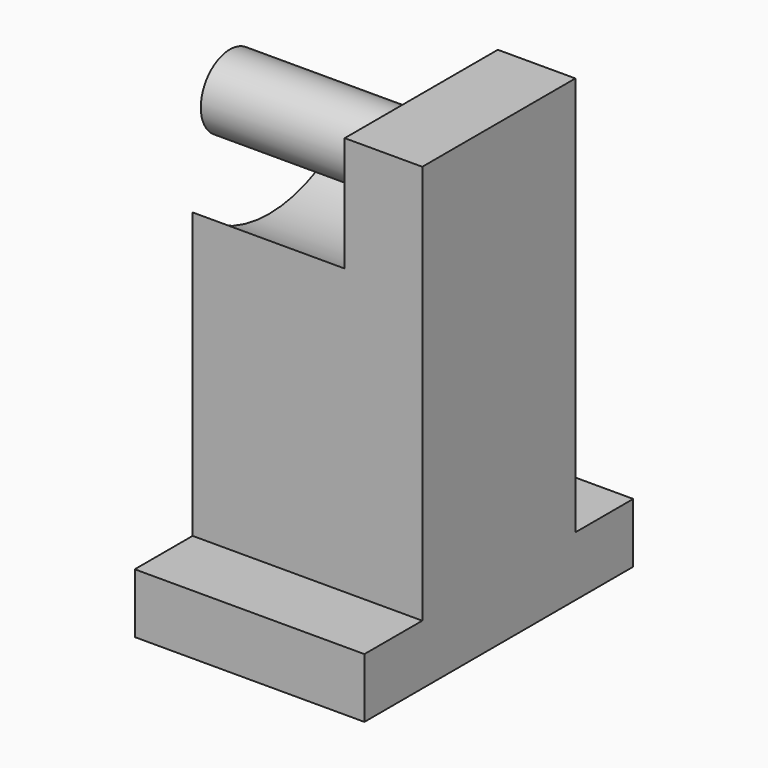
from build123d import *

# Parameters (mm, degrees)
F1_DEPTH = 12.7
F2_W     = 15.24
F2_H     = 3.961895
F3_DEPTH = 4.8006
F5_DEPTH = 10.033
F6_R     = 2.413
F7_DEPTH = 12.7
F8_W     = 15.24
F8_H     = 3.9624
F9_DEPTH = 4.8006


with BuildPart() as f1:
    # F0 (on Front) → F1 (new body)
    with BuildSketch(Plane.XZ):
        Polygon((15.24, 0), (10.092631, 0), (10.092631, -7.62), (0, -7.62), (0, -30.48), (15.24, -30.48), align=None)
    extrude(amount=F1_DEPTH)

    # F2 (on face) → F3 (join)
    with BuildSketch(Plane.XZ.offset(12.7)):
        with Locations((7.62, -28.499052)):
            Rectangle(F2_W, F2_H)
    extrude(amount=F3_DEPTH)

    # F4 (on face) → F5 (cut)
    with BuildSketch(Plane(origin=(0, 0, 0), x_dir=(0, -1, 0), z_dir=(-1, 0, 0))):
        with BuildLine():
            Line((12.7, -7.62), (0, -7.62))
            ThreePointArc((0, -7.62), (6.35, -10.288296), (12.7, -7.62))
        make_face()
    extrude(amount=-F5_DEPTH, mode=Mode.SUBTRACT)

    # F6 (on face) → F7 (join)
    with BuildSketch(Plane(origin=(10.092631, 0, 0), x_dir=(0, -1, 0), z_dir=(-1, 0, 0))):
        with Locations((6.35, -3.938296)):
            Circle(F6_R)
    extrude(amount=F7_DEPTH)

    # F8 (on face) → F9 (join)
    with BuildSketch(Plane(origin=(0, 0, 0), x_dir=(-1, 0, 0), z_dir=(0, 1, 0))):
        with Locations((-7.62, -28.4988)):
            Rectangle(F8_W, F8_H)
    extrude(amount=F9_DEPTH)


solid = f1.part
